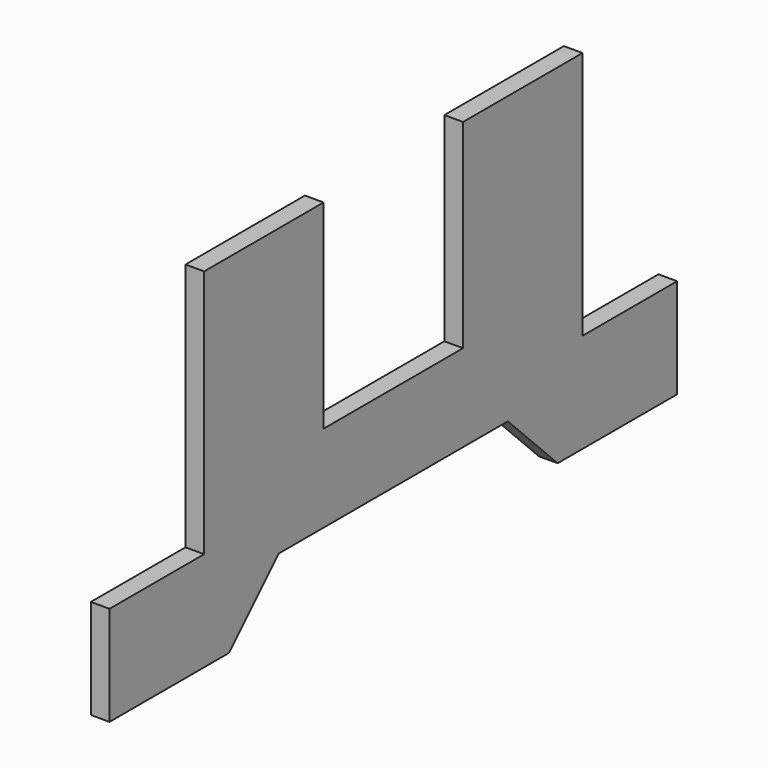
from build123d import *

# Parameters (mm, degrees)
F1_DEPTH = 6.35
F2_DEPTH = 12.7


with BuildPart() as f1:
    # F0 (on Right) → F1 (new body, symmetric)
    with BuildSketch(Plane.YZ):
        Polygon((0, 0), (0, 254), (-152.4, 254), (-152.4, 50.8), (-330.2, 50.8), (-330.2, 254), (-482.6, 254), (-482.6, 0), (-603.25, 0), (-603.25, -101.6), (-450.85, -101.6), (-387.35, -38.1), (-95.25, -38.1), (-31.75, -101.6), (120.65, -101.6), (120.65, 0), align=None)
    extrude(amount=F1_DEPTH, both=True)

    # F0 (on Right) → F2 (join)
    with BuildSketch(Plane.YZ):
        Polygon((0, 0), (0, 254), (-152.4, 254), (-152.4, 50.8), (-330.2, 50.8), (-330.2, 254), (-482.6, 254), (-482.6, 0), (-603.25, 0), (-603.25, -101.6), (-450.85, -101.6), (-387.35, -38.1), (-95.25, -38.1), (-31.75, -101.6), (120.65, -101.6), (120.65, 0), align=None)
    extrude(amount=F2_DEPTH)


solid = f1.part
